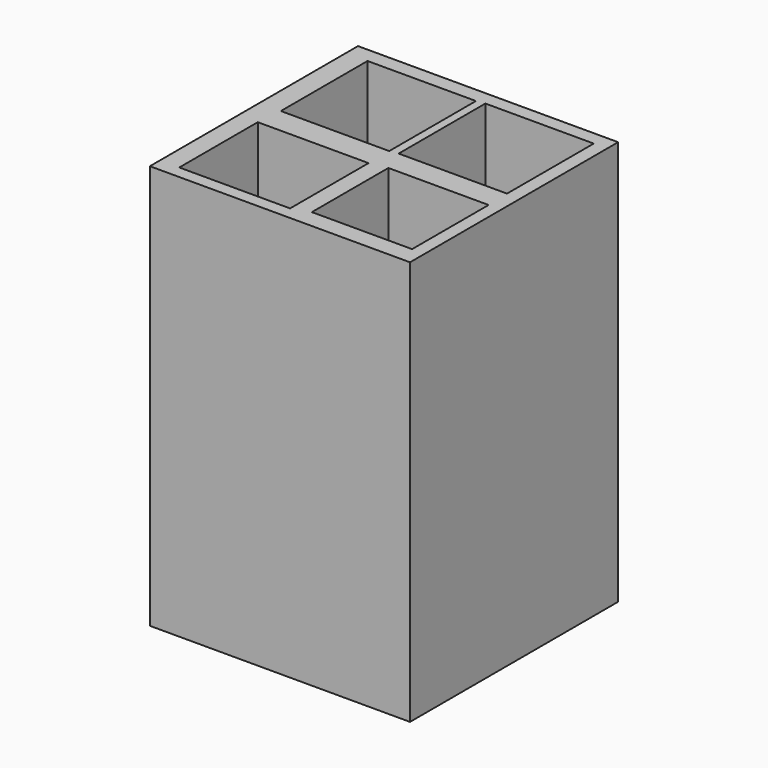
from build123d import *

# Parameters (mm, degrees)
F0_W     = 57.15
F0_H     = 57.15
F1_DEPTH = 88.9
F2_W     = 23.8125
F2_H     = 23.8125
F3_DEPTH = 76.2
F4_W     = 23.8125
F4_H     = 23.8125
F5_DEPTH = 76.2
F6_W     = 24.340702
F6_H     = 21.549652
F7_DEPTH = 76.2
F8_W     = 22.018882
F8_H     = 21.008313
F9_DEPTH = 76.2


with BuildPart() as f1:
    # F0 (on Top) → F1 (new body)
    with BuildSketch(Plane.XY):
        Rectangle(F0_W, F0_H)
    extrude(amount=F1_DEPTH)

    # F2 (on face) → F3 (cut)
    with BuildSketch(Plane.XY.offset(88.9)):
        with Locations((13.726034, 13.655303)):
            Rectangle(F2_W, F2_H)
    extrude(amount=-F3_DEPTH, mode=Mode.SUBTRACT)

    # F4 (on face) → F5 (cut)
    with BuildSketch(Plane.XY.offset(88.9)):
        with Locations((-11.932438, 13.372463)):
            Rectangle(F4_W, F4_H)
    extrude(amount=-F5_DEPTH, mode=Mode.SUBTRACT)

    # F6 (on face) → F7 (cut)
    with BuildSketch(Plane.XY.offset(88.9)):
        with Locations((-12.170351, -15.019511)):
            Rectangle(F6_W, F6_H)
    extrude(amount=-F7_DEPTH, mode=Mode.SUBTRACT)

    # F8 (on face) → F9 (cut)
    with BuildSketch(Plane.XY.offset(88.9)):
        with Locations((14.791763, -14.032443)):
            Rectangle(F8_W, F8_H)
    extrude(amount=-F9_DEPTH, mode=Mode.SUBTRACT)


solid = f1.part
